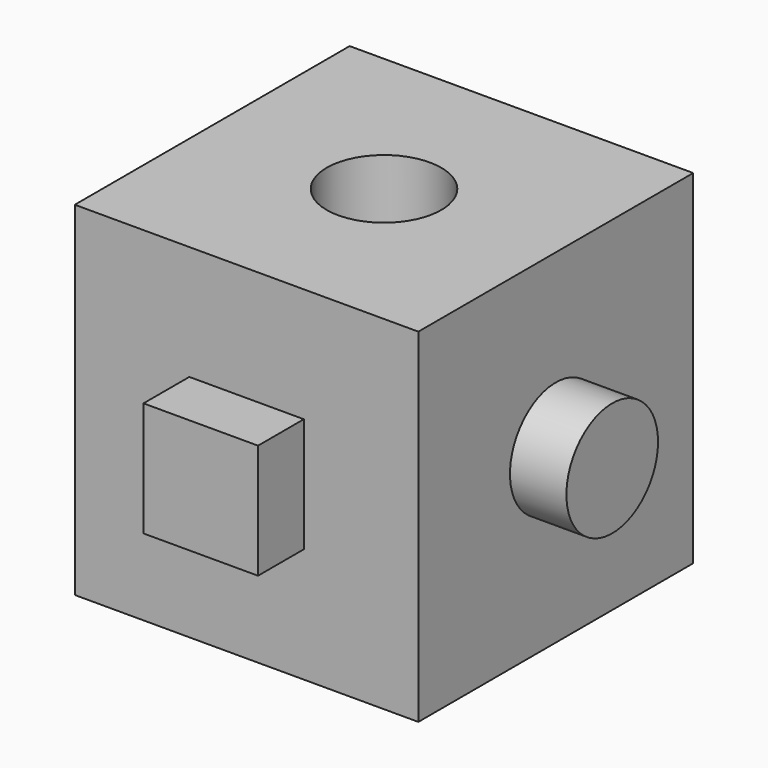
from build123d import *

# Parameters (mm, degrees)
F0_W     = 76.2
F0_H     = 76.2
F1_DEPTH = 76.2
F2_R     = 12.7
F3_DEPTH = 58.42
F5_D     = 25.4
F6_W     = 25.4
F6_H     = 25.4
F7_DEPTH = 12.7


with BuildPart() as f1:
    # F0 (on Front) → F1 (new body)
    with BuildSketch(Plane.XZ):
        with Locations((7.805411, 12.657838)):
            Rectangle(F0_W, F0_H)
    extrude(amount=F1_DEPTH)

    # F2 (on Right) → F3 (join)
    with BuildSketch(Plane.YZ):
        with Locations((-38.1, 12.657838)):
            Circle(F2_R)
    extrude(amount=F3_DEPTH)

    # F5 (through all)
    with Locations(Plane.XY.offset(50.757838)):
        with Locations((7.805411, -38.1)):
            Hole(F5_D / 2)

    # F6 (on face) → F7 (join)
    with BuildSketch(Plane.XZ.offset(76.2)):
        with Locations((7.805411, 12.7)):
            Rectangle(F6_W, F6_H)
        with Locations((7.805411, 12.7)):
            Rectangle(F6_W, F6_H)
    extrude(amount=F7_DEPTH)


solid = f1.part
